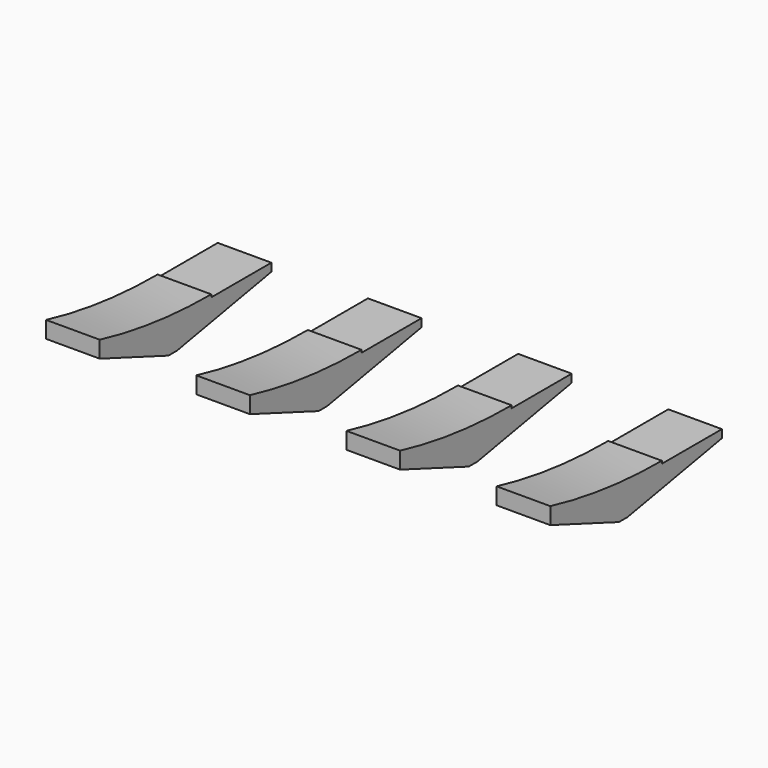
from build123d import *

# Parameters (mm, degrees)
CYLINDER1379_W     = 55
CYLINDER1379_H     = 60
CYLINDER1379_ANGLE = 80
BOX549_W           = 10
BOX549_H           = 20
BOX549_DEPTH       = 6
BOX548_W           = 5
BOX548_H           = 20
BOX548_DEPTH       = 6
CHAMFER055_SIZE2   = 8
CHAMFER055_SIZE    = 3
CHAMFER056_SIZE2   = 2
CHAMFER056_SIZE    = 11
CYLINDER1381_W     = 55
CYLINDER1381_H     = 60
CYLINDER1381_ANGLE = 80
BOX553_W           = 10
BOX553_H           = 20
BOX553_DEPTH       = 6
BOX552_W           = 5
BOX552_H           = 20
BOX552_DEPTH       = 6
CHAMFER059_SIZE2   = 8
CHAMFER059_SIZE    = 3
CHAMFER060_SIZE2   = 2
CHAMFER060_SIZE    = 11
CYLINDER1380_W     = 55
CYLINDER1380_H     = 60
CYLINDER1380_ANGLE = 80
BOX551_W           = 10
BOX551_H           = 20
BOX551_DEPTH       = 6
BOX550_W           = 5
BOX550_H           = 20
BOX550_DEPTH       = 6
CHAMFER057_SIZE2   = 8
CHAMFER057_SIZE    = 3
CHAMFER058_SIZE2   = 2
CHAMFER058_SIZE    = 11
CYLINDER1378_W     = 55
CYLINDER1378_H     = 60
CYLINDER1378_ANGLE = 80
BOX547_W           = 10
BOX547_H           = 20
BOX547_DEPTH       = 6
BOX546_W           = 5
BOX546_H           = 20
BOX546_DEPTH       = 6
CHAMFER053_SIZE2   = 8
CHAMFER053_SIZE    = 3
CHAMFER054_SIZE2   = 2
CHAMFER054_SIZE    = 11


with BuildPart() as cylinder1379:
    # Cylinder1379 → Cylinder1379 (revolve)
    with BuildSketch(Plane(origin=(432, 85, 100), x_dir=(0, 0, -1), z_dir=(0, -1, 0))):
        with Locations((27.5, 30)):
            Rectangle(CYLINDER1379_W, CYLINDER1379_H)
    revolve(axis=Axis((432, 85, 100), (1, 0, 0)), revolution_arc=CYLINDER1379_ANGLE)


with BuildPart() as fusion248002050241:
    # Box549 → Box549 (new body)
    with BuildSketch(Plane(origin=(434, 65, 44.75), x_dir=(1, 0, 0), z_dir=(0, 0, 1))):
        with Locations((5, 10)):
            Rectangle(BOX549_W, BOX549_H)
    extrude(amount=BOX549_DEPTH)

    # Fusion248002050241: union Cylinder1379
    add(cylinder1379.part)


with BuildPart() as chamfer056:
    # Box548 → Box548 (new body)
    with BuildSketch(Plane(origin=(434, 78, 42), x_dir=(1, 0, 0), z_dir=(0, 0, 1))):
        with Locations((2.5, 10)):
            Rectangle(BOX548_W, BOX548_H)
    extrude(amount=BOX548_DEPTH)

    # Cut014350: cut Fusion248002050241
    add(fusion248002050241.part, mode=Mode.SUBTRACT)

    # Chamfer055
    chamfer055_edges = [chamfer056.edges().sort_by_distance(p)[0] for p in [
        (436.5, 98, 42),
    ]]
    chamfer055_side = chamfer056.faces().sort_by_distance((436.5, 98, 44.279222))[0]
    chamfer(chamfer055_edges, length=CHAMFER055_SIZE, length2=CHAMFER055_SIZE2, reference=chamfer055_side)

    # Chamfer056
    chamfer056_edges = [chamfer056.edges().sort_by_distance(p)[0] for p in [
        (436.5, 78, 42),
    ]]
    chamfer056_side = chamfer056.faces().sort_by_distance((436.5, 84, 42))[0]
    chamfer(chamfer056_edges, length=CHAMFER056_SIZE, length2=CHAMFER056_SIZE2, reference=chamfer056_side)


with BuildPart() as chamfer056_1:
    # Chamfer056 placement: moved
    add(chamfer056.part.moved(Location((29, 0, 9))))


with BuildPart() as cylinder1381:
    # Cylinder1381 → Cylinder1381 (revolve)
    with BuildSketch(Plane(origin=(432, 85, 100), x_dir=(0, 0, -1), z_dir=(0, -1, 0))):
        with Locations((27.5, 30)):
            Rectangle(CYLINDER1381_W, CYLINDER1381_H)
    revolve(axis=Axis((432, 85, 100), (1, 0, 0)), revolution_arc=CYLINDER1381_ANGLE)


with BuildPart() as fusion248002050243:
    # Box553 → Box553 (new body)
    with BuildSketch(Plane(origin=(434, 65, 44.75), x_dir=(1, 0, 0), z_dir=(0, 0, 1))):
        with Locations((5, 10)):
            Rectangle(BOX553_W, BOX553_H)
    extrude(amount=BOX553_DEPTH)

    # Fusion248002050243: union Cylinder1381
    add(cylinder1381.part)


with BuildPart() as chamfer060:
    # Box552 → Box552 (new body)
    with BuildSketch(Plane(origin=(434, 78, 42), x_dir=(1, 0, 0), z_dir=(0, 0, 1))):
        with Locations((2.5, 10)):
            Rectangle(BOX552_W, BOX552_H)
    extrude(amount=BOX552_DEPTH)

    # Cut014352: cut Fusion248002050243
    add(fusion248002050243.part, mode=Mode.SUBTRACT)

    # Chamfer059
    chamfer059_edges = [chamfer060.edges().sort_by_distance(p)[0] for p in [
        (436.5, 98, 42),
    ]]
    chamfer059_side = chamfer060.faces().sort_by_distance((436.5, 98, 44.279222))[0]
    chamfer(chamfer059_edges, length=CHAMFER059_SIZE, length2=CHAMFER059_SIZE2, reference=chamfer059_side)

    # Chamfer060
    chamfer060_edges = [chamfer060.edges().sort_by_distance(p)[0] for p in [
        (436.5, 78, 42),
    ]]
    chamfer060_side = chamfer060.faces().sort_by_distance((436.5, 84, 42))[0]
    chamfer(chamfer060_edges, length=CHAMFER060_SIZE, length2=CHAMFER060_SIZE2, reference=chamfer060_side)


with BuildPart() as chamfer060_1:
    # Chamfer060 placement: moved
    add(chamfer060.part.moved(Location((43, 0, 9))))


with BuildPart() as cylinder1380:
    # Cylinder1380 → Cylinder1380 (revolve)
    with BuildSketch(Plane(origin=(432, 85, 100), x_dir=(0, 0, -1), z_dir=(0, -1, 0))):
        with Locations((27.5, 30)):
            Rectangle(CYLINDER1380_W, CYLINDER1380_H)
    revolve(axis=Axis((432, 85, 100), (1, 0, 0)), revolution_arc=CYLINDER1380_ANGLE)


with BuildPart() as fusion248002050242:
    # Box551 → Box551 (new body)
    with BuildSketch(Plane(origin=(434, 65, 44.75), x_dir=(1, 0, 0), z_dir=(0, 0, 1))):
        with Locations((5, 10)):
            Rectangle(BOX551_W, BOX551_H)
    extrude(amount=BOX551_DEPTH)

    # Fusion248002050242: union Cylinder1380
    add(cylinder1380.part)


with BuildPart() as chamfer058:
    # Box550 → Box550 (new body)
    with BuildSketch(Plane(origin=(434, 78, 42), x_dir=(1, 0, 0), z_dir=(0, 0, 1))):
        with Locations((2.5, 10)):
            Rectangle(BOX550_W, BOX550_H)
    extrude(amount=BOX550_DEPTH)

    # Cut014351: cut Fusion248002050242
    add(fusion248002050242.part, mode=Mode.SUBTRACT)

    # Chamfer057
    chamfer057_edges = [chamfer058.edges().sort_by_distance(p)[0] for p in [
        (436.5, 98, 42),
    ]]
    chamfer057_side = chamfer058.faces().sort_by_distance((436.5, 98, 44.279222))[0]
    chamfer(chamfer057_edges, length=CHAMFER057_SIZE, length2=CHAMFER057_SIZE2, reference=chamfer057_side)

    # Chamfer058
    chamfer058_edges = [chamfer058.edges().sort_by_distance(p)[0] for p in [
        (436.5, 78, 42),
    ]]
    chamfer058_side = chamfer058.faces().sort_by_distance((436.5, 84, 42))[0]
    chamfer(chamfer058_edges, length=CHAMFER058_SIZE, length2=CHAMFER058_SIZE2, reference=chamfer058_side)


with BuildPart() as chamfer058_1:
    # Chamfer058 placement: moved
    add(chamfer058.part.moved(Location((15, 0, 9))))


with BuildPart() as cylinder1378:
    # Cylinder1378 → Cylinder1378 (revolve)
    with BuildSketch(Plane(origin=(432, 85, 100), x_dir=(0, 0, -1), z_dir=(0, -1, 0))):
        with Locations((27.5, 30)):
            Rectangle(CYLINDER1378_W, CYLINDER1378_H)
    revolve(axis=Axis((432, 85, 100), (1, 0, 0)), revolution_arc=CYLINDER1378_ANGLE)


with BuildPart() as fusion248002050240:
    # Box547 → Box547 (new body)
    with BuildSketch(Plane(origin=(434, 65, 44.75), x_dir=(1, 0, 0), z_dir=(0, 0, 1))):
        with Locations((5, 10)):
            Rectangle(BOX547_W, BOX547_H)
    extrude(amount=BOX547_DEPTH)

    # Fusion248002050240: union Cylinder1378
    add(cylinder1378.part)


with BuildPart() as fusion248002050244:
    # Box546 → Box546 (new body)
    with BuildSketch(Plane(origin=(434, 78, 42), x_dir=(1, 0, 0), z_dir=(0, 0, 1))):
        with Locations((2.5, 10)):
            Rectangle(BOX546_W, BOX546_H)
    extrude(amount=BOX546_DEPTH)

    # Cut014349: cut Fusion248002050240
    add(fusion248002050240.part, mode=Mode.SUBTRACT)

    # Chamfer053
    chamfer053_edges = [fusion248002050244.edges().sort_by_distance(p)[0] for p in [
        (436.5, 98, 42),
    ]]
    chamfer053_side = fusion248002050244.faces().sort_by_distance((436.5, 98, 44.279222))[0]
    chamfer(chamfer053_edges, length=CHAMFER053_SIZE, length2=CHAMFER053_SIZE2, reference=chamfer053_side)

    # Chamfer054
    chamfer054_edges = [fusion248002050244.edges().sort_by_distance(p)[0] for p in [
        (436.5, 78, 42),
    ]]
    chamfer054_side = fusion248002050244.faces().sort_by_distance((436.5, 84, 42))[0]
    chamfer(chamfer054_edges, length=CHAMFER054_SIZE, length2=CHAMFER054_SIZE2, reference=chamfer054_side)


with BuildPart() as fusion248002050244_1:
    # Chamfer054 placement: moved
    add(fusion248002050244.part.moved(Location((1, 0, 9))))

    # Fusion248002050244: union Chamfer056, Chamfer060, Chamfer058
    add(chamfer056_1.part)
    add(chamfer060_1.part)
    add(chamfer058_1.part)


with BuildPart() as part_mirroring:
    # Part__Mirroring: instance of Fusion248002050244
    add(fusion248002050244_1.part.mirror(Plane(origin=(0, 0, 0), x_dir=(1, 0, 0), z_dir=(0, 1, 0))))


with BuildPart() as part_mirroring_1:
    # Part__Mirroring placement: moved
    add(part_mirroring.part.moved(Location((7, 170, 0))))


solid = part_mirroring_1.part
